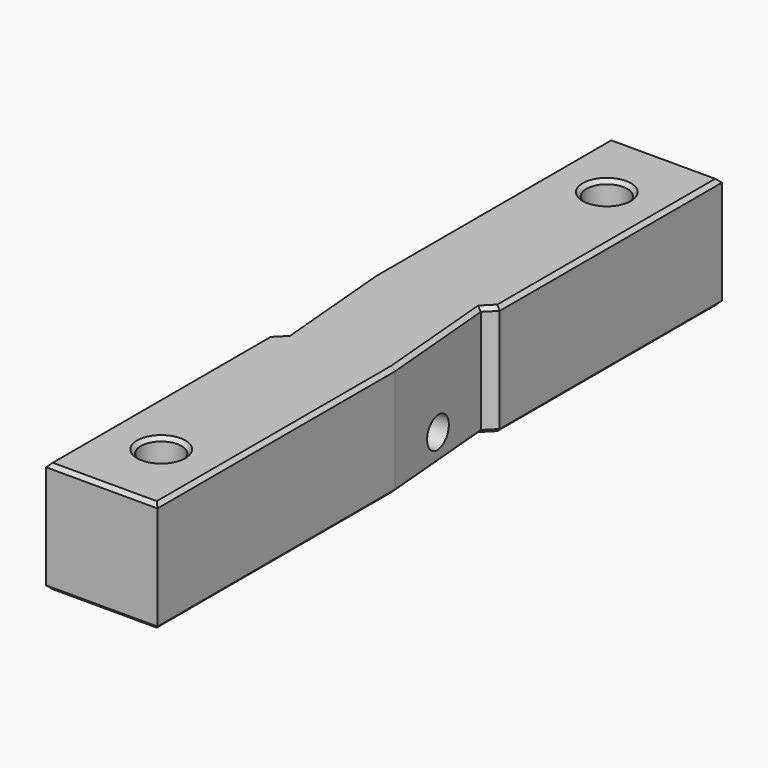
from build123d import *

# Parameters (mm, degrees)
SKETCH023_W          = 76
SKETCH023_H          = 12
PAD007_DEPTH         = 12
SKETCH065_R          = 2.2
POCKET021_DEPTH      = 0.001
POCKET021_DEPTH_BACK = 42.001
SKETCH025_R          = 1.65
POCKET022_DEPTH      = 9.290086
POCKET022_DEPTH_BACK = 9.290086
CHAMFER004_SIZE      = 0.4


with BuildPart() as part:
    # Sketch023 → Pad007 (new body)
    with BuildSketch(Plane.YZ):
        with Locations((0, 36)):
            Rectangle(SKETCH023_W, SKETCH023_H)
    extrude(amount=PAD007_DEPTH)

    # Sketch065 → Pocket021 (cut, two sides)
    with BuildSketch(Plane.XY) as pocket021_sk:
        with Locations((6, 30)):
            Circle(SKETCH065_R)
        with Locations((6, -30)):
            Circle(SKETCH065_R)
        Polygon((10.866975, 6.950634), (13, 9.083659), (13, -5.999897), (12, -5.999897), align=None)
        Polygon((0, 5.999897), (-1, 5.999897), (-1, -9.083659), (1.133025, -6.950634), align=None)
    extrude(amount=-POCKET021_DEPTH, mode=Mode.SUBTRACT)
    extrude(pocket021_sk.sketch, amount=POCKET021_DEPTH_BACK, mode=Mode.SUBTRACT)

    # Sketch025 (on DatumPlane) → Pocket022 (cut, two sides)
    with BuildSketch(Plane(origin=(6, 0, 0), x_dir=(-0.087156, 0.996195, 0), z_dir=(0.996195, 0.087156, 0))) as pocket022_sk:
        with Locations((0, 33)):
            Circle(SKETCH025_R)
    extrude(amount=-POCKET022_DEPTH, mode=Mode.SUBTRACT)
    extrude(pocket022_sk.sketch, amount=POCKET022_DEPTH_BACK, mode=Mode.SUBTRACT)

    # Chamfer004
    chamfer004_edges = [part.edges().sort_by_distance(p)[0] for p in [
        (0, -23.041829, 42),
        (0.566512, -7.517146, 42),
        (0.566512, -0.475369, 42),
        (0, 21.999948, 42),
        (6, 38, 42),
        (12, 23.041829, 42),
        (11.433488, 7.517146, 42),
        (11.433488, 0.475369, 42),
        (12, -21.999948, 42),
        (6, -38, 42),
        (3.8, -30, 42),
        (3.8, 30, 42),
        (0, -23.041829, 30),
        (0.566512, -7.517146, 30),
        (0.566512, -0.475369, 30),
        (0, 21.999948, 30),
        (6, 38, 30),
        (12, 23.041829, 30),
        (11.433488, 7.517146, 30),
        (11.433488, 0.475369, 30),
        (12, -21.999948, 30),
        (6, -38, 30),
        (3.8, -30, 30),
        (3.8, 30, 30),
    ]]
    chamfer(chamfer004_edges, length=CHAMFER004_SIZE)


with BuildPart() as part_1:
    # Body008 placement: moved
    add(part.part.moved(Location((122.7, 0, 835))))


solid = part_1.part
